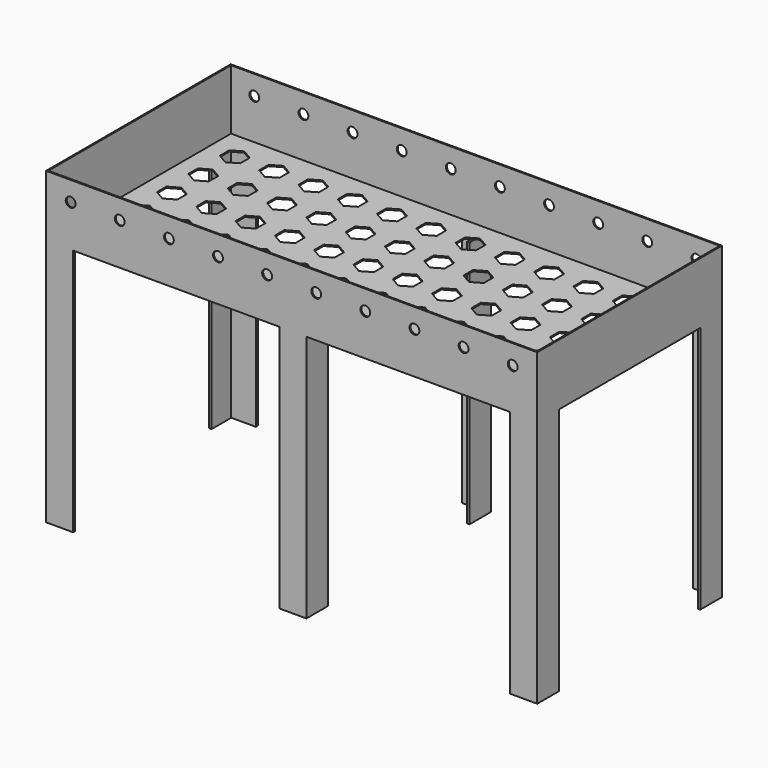
from build123d import *

# Parameters (mm, degrees)
F1_W     = 1000
F1_H     = 470
F2_DEPTH = 125
F3_T     = -2.54
F5_DEPTH = 505
F6_R     = 10
F7_DEPTH = 470
F9_DEPTH = 2.54


with BuildPart() as f2:
    # F1 (on offset) → F2 (new body)
    with BuildSketch(Plane.XY.offset(505)):
        Rectangle(F1_W, F1_H)
    extrude(amount=F2_DEPTH)

    # F3
    f3_openings = [f2.faces().sort_by_distance(p)[0] for p in [
        (0, 0, 630),
    ]]
    offset(amount=F3_T, openings=f3_openings)

    # F4 (on face) → F5 (join, through all)
    with BuildSketch(Plane(origin=(0, 0, 505), x_dir=(1, 0, 0), z_dir=(0, 0, -1))):
        Polygon((500, 235), (445, 235), (445, 230), (495, 230), (495, 180), (500, 180), align=None)
        Polygon((500, -235), (500, -180), (495, -180), (495, -230), (445, -230), (445, -235), align=None)
        Polygon((30, 235), (-25, 235), (-25, 230), (25, 230), (25, 180), (30, 180), align=None)
        Polygon((-25, -230), (-25, -235), (30, -235), (30, -180), (25, -180), (25, -230), align=None)
        Polygon((-500, 235), (-500, 180), (-495, 180), (-495, 230), (-445, 230), (-445, 235), align=None)
        Polygon((-495, -180), (-500, -180), (-500, -235), (-445, -235), (-445, -230), (-495, -230), align=None)
    extrude(amount=F5_DEPTH)

    # F6 (on face) → F7 (cut, through all)
    with BuildSketch(Plane.XZ.offset(235)):
        with Locations((-450, 590)):
            Circle(F6_R)
        with Locations((-350, 590)):
            Circle(F6_R)
        with Locations((-250, 590)):
            Circle(F6_R)
        with Locations((-150, 590)):
            Circle(F6_R)
        with Locations((-50, 590)):
            Circle(F6_R)
        with Locations((50, 590)):
            Circle(F6_R)
        with Locations((150, 590)):
            Circle(F6_R)
        with Locations((250, 590)):
            Circle(F6_R)
        with Locations((350, 590)):
            Circle(F6_R)
        with Locations((450, 590)):
            Circle(F6_R)
        with Locations((550, 590)):
            Circle(F6_R)
        with Locations((650, 590)):
            Circle(F6_R)
        with Locations((750, 590)):
            Circle(F6_R)
        with Locations((850, 590)):
            Circle(F6_R)
        with Locations((950, 590)):
            Circle(F6_R)
        with Locations((1050, 590)):
            Circle(F6_R)
        with Locations((1150, 590)):
            Circle(F6_R)
        with Locations((1250, 590)):
            Circle(F6_R)
        with Locations((1350, 590)):
            Circle(F6_R)
        with Locations((1450, 590)):
            Circle(F6_R)
    extrude(amount=-F7_DEPTH, mode=Mode.SUBTRACT)

    # F8 (on face) → F9 (cut, through all)
    with BuildSketch(Plane.XY.offset(507.54)):
        Polygon((-422.115772, 161.859809), (-422.115772, 185.87317), (-442.911953, 197.879851), (-463.708134, 185.87317), (-463.708134, 161.859809), (-442.911953, 149.853128), align=None)
        Polygon((-442.911953, 69.853128), (-422.115772, 81.859809), (-422.115772, 105.87317), (-442.911953, 117.879851), (-463.708134, 105.87317), (-463.708134, 81.859809), align=None)
        Polygon((-442.911953, -10.146872), (-422.115772, 1.859809), (-422.115772, 25.87317), (-442.911953, 37.879851), (-463.708134, 25.87317), (-463.708134, 1.859809), align=None)
        Polygon((-442.911953, -90.146872), (-422.115772, -78.140191), (-422.115772, -54.12683), (-442.911953, -42.120149), (-463.708134, -54.12683), (-463.708134, -78.140191), align=None)
        Polygon((-442.911953, -170.146872), (-422.115772, -158.140191), (-422.115772, -134.12683), (-442.911953, -122.120149), (-463.708134, -134.12683), (-463.708134, -158.140191), align=None)
        Polygon((-362.911953, 149.853128), (-342.115772, 161.859809), (-342.115772, 185.87317), (-362.911953, 197.879851), (-383.708134, 185.87317), (-383.708134, 161.859809), align=None)
        Polygon((-362.911953, 69.853128), (-342.115772, 81.859809), (-342.115772, 105.87317), (-362.911953, 117.879851), (-383.708134, 105.87317), (-383.708134, 81.859809), align=None)
        Polygon((-362.911953, -10.146872), (-342.115772, 1.859809), (-342.115772, 25.87317), (-362.911953, 37.879851), (-383.708134, 25.87317), (-383.708134, 1.859809), align=None)
        Polygon((-362.911953, -90.146872), (-342.115772, -78.140191), (-342.115772, -54.12683), (-362.911953, -42.120149), (-383.708134, -54.12683), (-383.708134, -78.140191), align=None)
        Polygon((-362.911953, -170.146872), (-342.115772, -158.140191), (-342.115772, -134.12683), (-362.911953, -122.120149), (-383.708134, -134.12683), (-383.708134, -158.140191), align=None)
        Polygon((-282.911953, 149.853128), (-262.115772, 161.859809), (-262.115772, 185.87317), (-282.911953, 197.879851), (-303.708134, 185.87317), (-303.708134, 161.859809), align=None)
        Polygon((-282.911953, 69.853128), (-262.115772, 81.859809), (-262.115772, 105.87317), (-282.911953, 117.879851), (-303.708134, 105.87317), (-303.708134, 81.859809), align=None)
        Polygon((-282.911953, -10.146872), (-262.115772, 1.859809), (-262.115772, 25.87317), (-282.911953, 37.879851), (-303.708134, 25.87317), (-303.708134, 1.859809), align=None)
        Polygon((-282.911953, -90.146872), (-262.115772, -78.140191), (-262.115772, -54.12683), (-282.911953, -42.120149), (-303.708134, -54.12683), (-303.708134, -78.140191), align=None)
        Polygon((-282.911953, -170.146872), (-262.115772, -158.140191), (-262.115772, -134.12683), (-282.911953, -122.120149), (-303.708134, -134.12683), (-303.708134, -158.140191), align=None)
        Polygon((-202.911953, 149.853128), (-182.115772, 161.859809), (-182.115772, 185.87317), (-202.911953, 197.879851), (-223.708134, 185.87317), (-223.708134, 161.859809), align=None)
        Polygon((-202.911953, 69.853128), (-182.115772, 81.859809), (-182.115772, 105.87317), (-202.911953, 117.879851), (-223.708134, 105.87317), (-223.708134, 81.859809), align=None)
        Polygon((-202.911953, -10.146872), (-182.115772, 1.859809), (-182.115772, 25.87317), (-202.911953, 37.879851), (-223.708134, 25.87317), (-223.708134, 1.859809), align=None)
        Polygon((-202.911953, -90.146872), (-182.115772, -78.140191), (-182.115772, -54.12683), (-202.911953, -42.120149), (-223.708134, -54.12683), (-223.708134, -78.140191), align=None)
        Polygon((-202.911953, -170.146872), (-182.115772, -158.140191), (-182.115772, -134.12683), (-202.911953, -122.120149), (-223.708134, -134.12683), (-223.708134, -158.140191), align=None)
        Polygon((-122.911953, 149.853128), (-102.115772, 161.859809), (-102.115772, 185.87317), (-122.911953, 197.879851), (-143.708134, 185.87317), (-143.708134, 161.859809), align=None)
        Polygon((-122.911953, 69.853128), (-102.115772, 81.859809), (-102.115772, 105.87317), (-122.911953, 117.879851), (-143.708134, 105.87317), (-143.708134, 81.859809), align=None)
        Polygon((-122.911953, -10.146872), (-102.115772, 1.859809), (-102.115772, 25.87317), (-122.911953, 37.879851), (-143.708134, 25.87317), (-143.708134, 1.859809), align=None)
        Polygon((-122.911953, -90.146872), (-102.115772, -78.140191), (-102.115772, -54.12683), (-122.911953, -42.120149), (-143.708134, -54.12683), (-143.708134, -78.140191), align=None)
        Polygon((-122.911953, -170.146872), (-102.115772, -158.140191), (-102.115772, -134.12683), (-122.911953, -122.120149), (-143.708134, -134.12683), (-143.708134, -158.140191), align=None)
        Polygon((-42.911953, 149.853128), (-22.115772, 161.859809), (-22.115772, 185.87317), (-42.911953, 197.879851), (-63.708134, 185.87317), (-63.708134, 161.859809), align=None)
        Polygon((-42.911953, 69.853128), (-22.115772, 81.859809), (-22.115772, 105.87317), (-42.911953, 117.879851), (-63.708134, 105.87317), (-63.708134, 81.859809), align=None)
        Polygon((-42.911953, -10.146872), (-22.115772, 1.859809), (-22.115772, 25.87317), (-42.911953, 37.879851), (-63.708134, 25.87317), (-63.708134, 1.859809), align=None)
        Polygon((-42.911953, -90.146872), (-22.115772, -78.140191), (-22.115772, -54.12683), (-42.911953, -42.120149), (-63.708134, -54.12683), (-63.708134, -78.140191), align=None)
        Polygon((-42.911953, -170.146872), (-22.115772, -158.140191), (-22.115772, -134.12683), (-42.911953, -122.120149), (-63.708134, -134.12683), (-63.708134, -158.140191), align=None)
        Polygon((37.088047, 149.853128), (57.884228, 161.859809), (57.884228, 185.87317), (37.088047, 197.879851), (16.291866, 185.87317), (16.291866, 161.859809), align=None)
        Polygon((37.088047, 69.853128), (57.884228, 81.859809), (57.884228, 105.87317), (37.088047, 117.879851), (16.291866, 105.87317), (16.291866, 81.859809), align=None)
        Polygon((37.088047, -10.146872), (57.884228, 1.859809), (57.884228, 25.87317), (37.088047, 37.879851), (16.291866, 25.87317), (16.291866, 1.859809), align=None)
        Polygon((37.088047, -90.146872), (57.884228, -78.140191), (57.884228, -54.12683), (37.088047, -42.120149), (16.291866, -54.12683), (16.291866, -78.140191), align=None)
        Polygon((37.088047, -170.146872), (57.884228, -158.140191), (57.884228, -134.12683), (37.088047, -122.120149), (16.291866, -134.12683), (16.291866, -158.140191), align=None)
        Polygon((117.088047, 149.853128), (137.884228, 161.859809), (137.884228, 185.87317), (117.088047, 197.879851), (96.291866, 185.87317), (96.291866, 161.859809), align=None)
        Polygon((117.088047, 69.853128), (137.884228, 81.859809), (137.884228, 105.87317), (117.088047, 117.879851), (96.291866, 105.87317), (96.291866, 81.859809), align=None)
        Polygon((117.088047, -10.146872), (137.884228, 1.859809), (137.884228, 25.87317), (117.088047, 37.879851), (96.291866, 25.87317), (96.291866, 1.859809), align=None)
        Polygon((117.088047, -90.146872), (137.884228, -78.140191), (137.884228, -54.12683), (117.088047, -42.120149), (96.291866, -54.12683), (96.291866, -78.140191), align=None)
        Polygon((117.088047, -170.146872), (137.884228, -158.140191), (137.884228, -134.12683), (117.088047, -122.120149), (96.291866, -134.12683), (96.291866, -158.140191), align=None)
        Polygon((197.088047, 149.853128), (217.884228, 161.859809), (217.884228, 185.87317), (197.088047, 197.879851), (176.291866, 185.87317), (176.291866, 161.859809), align=None)
        Polygon((197.088047, 69.853128), (217.884228, 81.859809), (217.884228, 105.87317), (197.088047, 117.879851), (176.291866, 105.87317), (176.291866, 81.859809), align=None)
        Polygon((197.088047, -10.146872), (217.884228, 1.859809), (217.884228, 25.87317), (197.088047, 37.879851), (176.291866, 25.87317), (176.291866, 1.859809), align=None)
        Polygon((197.088047, -90.146872), (217.884228, -78.140191), (217.884228, -54.12683), (197.088047, -42.120149), (176.291866, -54.12683), (176.291866, -78.140191), align=None)
        Polygon((197.088047, -170.146872), (217.884228, -158.140191), (217.884228, -134.12683), (197.088047, -122.120149), (176.291866, -134.12683), (176.291866, -158.140191), align=None)
        Polygon((277.088047, 149.853128), (297.884228, 161.859809), (297.884228, 185.87317), (277.088047, 197.879851), (256.291866, 185.87317), (256.291866, 161.859809), align=None)
        Polygon((277.088047, 69.853128), (297.884228, 81.859809), (297.884228, 105.87317), (277.088047, 117.879851), (256.291866, 105.87317), (256.291866, 81.859809), align=None)
        Polygon((277.088047, -10.146872), (297.884228, 1.859809), (297.884228, 25.87317), (277.088047, 37.879851), (256.291866, 25.87317), (256.291866, 1.859809), align=None)
        Polygon((277.088047, -90.146872), (297.884228, -78.140191), (297.884228, -54.12683), (277.088047, -42.120149), (256.291866, -54.12683), (256.291866, -78.140191), align=None)
        Polygon((277.088047, -170.146872), (297.884228, -158.140191), (297.884228, -134.12683), (277.088047, -122.120149), (256.291866, -134.12683), (256.291866, -158.140191), align=None)
        Polygon((357.088047, 149.853128), (377.884228, 161.859809), (377.884228, 185.87317), (357.088047, 197.879851), (336.291866, 185.87317), (336.291866, 161.859809), align=None)
        Polygon((357.088047, 69.853128), (377.884228, 81.859809), (377.884228, 105.87317), (357.088047, 117.879851), (336.291866, 105.87317), (336.291866, 81.859809), align=None)
        Polygon((357.088047, -10.146872), (377.884228, 1.859809), (377.884228, 25.87317), (357.088047, 37.879851), (336.291866, 25.87317), (336.291866, 1.859809), align=None)
        Polygon((357.088047, -90.146872), (377.884228, -78.140191), (377.884228, -54.12683), (357.088047, -42.120149), (336.291866, -54.12683), (336.291866, -78.140191), align=None)
        Polygon((357.088047, -170.146872), (377.884228, -158.140191), (377.884228, -134.12683), (357.088047, -122.120149), (336.291866, -134.12683), (336.291866, -158.140191), align=None)
        Polygon((437.088047, 149.853128), (457.884228, 161.859809), (457.884228, 185.87317), (437.088047, 197.879851), (416.291866, 185.87317), (416.291866, 161.859809), align=None)
        Polygon((437.088047, 69.853128), (457.884228, 81.859809), (457.884228, 105.87317), (437.088047, 117.879851), (416.291866, 105.87317), (416.291866, 81.859809), align=None)
        Polygon((437.088047, -10.146872), (457.884228, 1.859809), (457.884228, 25.87317), (437.088047, 37.879851), (416.291866, 25.87317), (416.291866, 1.859809), align=None)
        Polygon((437.088047, -90.146872), (457.884228, -78.140191), (457.884228, -54.12683), (437.088047, -42.120149), (416.291866, -54.12683), (416.291866, -78.140191), align=None)
        Polygon((437.088047, -170.146872), (457.884228, -158.140191), (457.884228, -134.12683), (437.088047, -122.120149), (416.291866, -134.12683), (416.291866, -158.140191), align=None)
    extrude(amount=-F9_DEPTH, mode=Mode.SUBTRACT)


solid = f2.part
